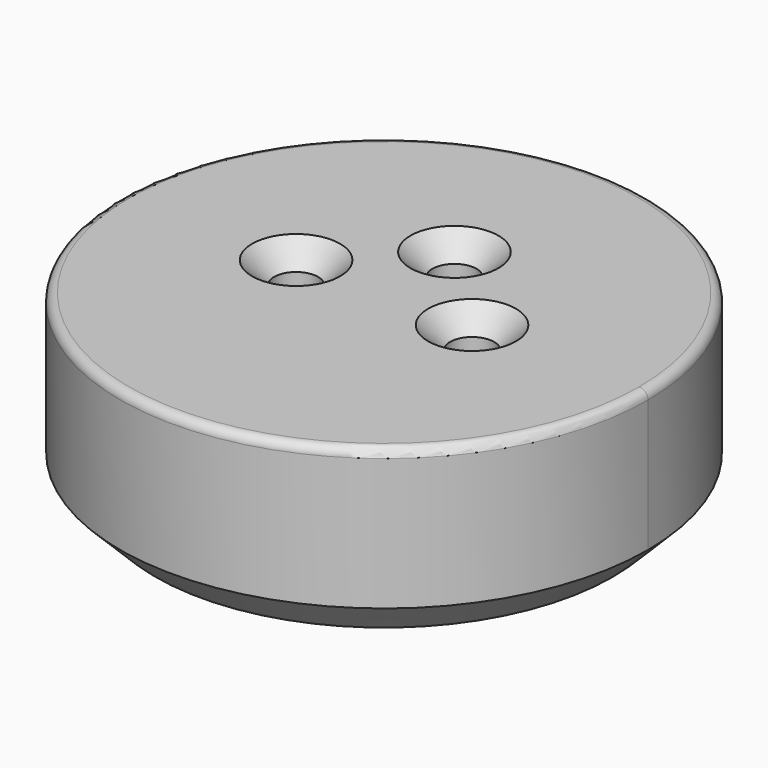
from build123d import *

# Parameters (mm, degrees)
F1_DEPTH       = 25.4
F3_D           = 6.35
F3_CSINK_D     = 12.7
F3_CSINK_ANGLE = 90
F4_R           = 1.27
F5_SIZE        = 5.08


with BuildPart() as f1:
    # F0 (on Top) → F1 (new body)
    with BuildSketch(Plane.XY):
        with BuildLine():
            ThreePointArc((-27.760715, 26.09507), (-14.034364, -35.420991), (38.1, 0))
            ThreePointArc((38.1, 0), (14.034364, 35.420991), (-27.760715, 26.09507))
        make_face()
    extrude(amount=F1_DEPTH)

    # F3 (through all)
    with Locations(Plane.XY.offset(25.4)):
        with Locations((-12.7, 0), (0, 12.7), (12.7, 0)):
            CounterSinkHole(F3_D / 2, F3_CSINK_D / 2, counter_sink_angle=F3_CSINK_ANGLE)

    # F4
    f4_edges = [f1.edges().sort_by_distance(p)[0] for p in [
        (-38.1, 0, 25.4),
    ]]
    fillet(f4_edges, radius=F4_R)

    # F5
    f5_edges = [f1.edges().sort_by_distance(p)[0] for p in [
        (-38.1, 0, 0),
    ]]
    chamfer(f5_edges, length=F5_SIZE)


solid = f1.part
